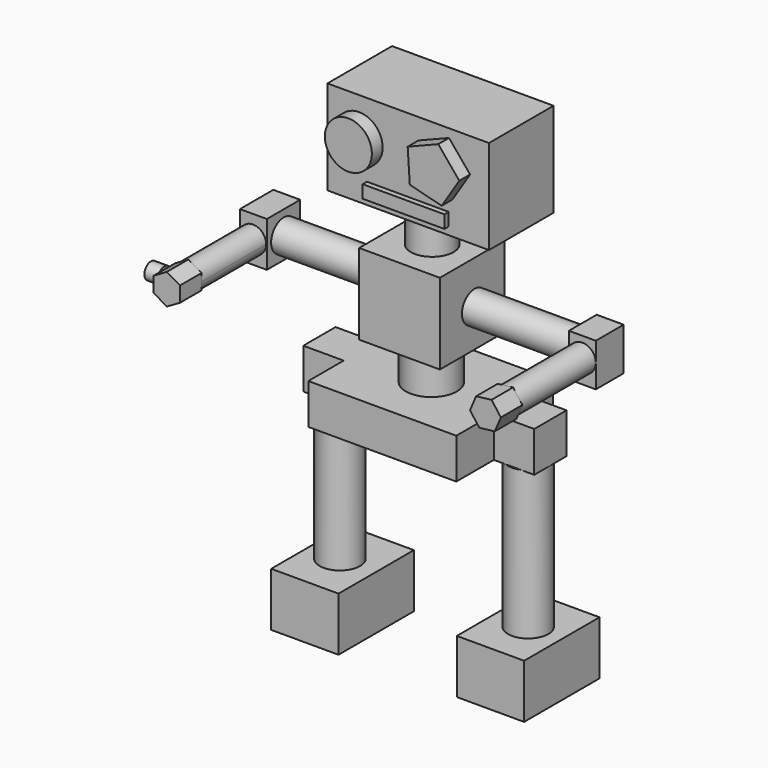
from build123d import *

# Parameters (mm, degrees)
F0_W      = 76.2
F0_H      = 76.2
F1_DEPTH  = 76.2
F3_R      = 14.8282279676
F4_DEPTH  = 101.6
F5_W      = 32.8097548336
F5_H      = 40.4232954606
F6_DEPTH  = 25.4
F7_R      = 12.7
F8_DEPTH  = 88.9
F10_R     = 14.9606
F11_DEPTH = 101.6
F12_W     = 39.3708851188
F12_H     = 42.2465577722
F13_DEPTH = 25.4
F15_DEPTH = 76.2
F17_DEPTH = 25.4
F19_DEPTH = 25.4
F20_R     = 24.146442962
F21_DEPTH = 38.1
F22_W     = 139.7
F22_H     = 114.3
F23_DEPTH = 38.1
F24_W     = 38.1
F24_H     = 38.1
F25_DEPTH = 38.1
F26_W     = 38.1
F26_H     = 38.1
F27_DEPTH = 38.1
F28_R     = 19.05
F29_DEPTH = 139.7
F30_R     = 19.05
F31_DEPTH = 139.7
F32_W     = 63.5
F32_H     = 88.9
F33_DEPTH = 50.8
F34_W     = 63.5
F34_H     = 88.9
F35_DEPTH = 50.8
F36_R     = 20.1986205594
F37_DEPTH = 38.1
F38_W     = 152.4
F38_H     = 76.2
F39_DEPTH = 88.9
F40_R     = 22.1928241729
F41_DEPTH = 12.7
F43_DEPTH = 12.7
F44_R     = 7.7494009563
F45_DEPTH = 12.7
F46_W     = 77.1328099072
F46_H     = 12.1117681265
F47_DEPTH = 5.08


with BuildPart() as f1:
    # F0 (on Front) → F1 (new body)
    with BuildSketch(Plane.XZ):
        with Locations((38.1, 38.1)):
            Rectangle(F0_W, F0_H)
    extrude(amount=F1_DEPTH)

    # F3 (on face) → F4 (join)
    with BuildSketch(Plane.YZ.offset(76.2)):
        with Locations((-35.3661105037, 35.6148853898)):
            Circle(F3_R)
    extrude(amount=F4_DEPTH)

    # F5 (on face) → F6 (join)
    with BuildSketch(Plane.YZ.offset(177.8)):
        with Locations((-34.6139231697, 34.7698931582)):
            Rectangle(F5_W, F5_H)
    extrude(amount=F6_DEPTH)

    # F7 (on face) → F8 (join)
    with BuildSketch(Plane.XZ.offset(51.0188005865)):
        with Locations((190.5, 36.6041734815)):
            Circle(F7_R)
    extrude(amount=F8_DEPTH)

    # F10 (on face) → F11 (join)
    with BuildSketch(Plane(origin=(0, 0, 0), x_dir=(0, -1, 0), z_dir=(-1, 0, 0))):
        with Locations((38.0133911967, 38.1359569728)):
            Circle(F10_R)
    extrude(amount=F11_DEPTH)

    # F12 (on face) → F13 (join)
    with BuildSketch(Plane(origin=(-101.6, 0, 0), x_dir=(0, -1, 0), z_dir=(-1, 0, 0))):
        with Locations((38.3626231924, 38.6948138475)):
            Rectangle(F12_W, F12_H)
    extrude(amount=F13_DEPTH)

    # F14 (on face) → F15 (join)
    with BuildSketch(Plane.XZ.offset(58.0480657518)):
        with BuildLine():
            ThreePointArc((-127, 36.7887159047), (-113.7693257582, 26.1444457534), (-102.2015897118, 38.5758057237))
            ThreePointArc((-102.2015897118, 38.5758057237), (-113.7693257582, 51.0071656939), (-127, 40.3628955426))
            Line((-127, 40.3628955426), (-127, 36.7887159047))
        make_face()
    extrude(amount=F15_DEPTH)

    # F16 (on face) → F17 (join)
    with BuildSketch(Plane.XZ.offset(134.2480657518)):
        Polygon((-102.2015897118, 31.3799439574), (-102.2015897118, 45.77166749), (-114.6651878953, 52.9675292563), (-127.1287860788, 45.77166749), (-127.1287860788, 31.3799439574), (-114.6651878953, 24.1840821911), align=None)
    extrude(amount=F17_DEPTH)

    # F18 (on face) → F19 (join)
    with BuildSketch(Plane.XZ.offset(139.9188005865)):
        Polygon((199.3113872654, 24.8818534128), (205.0575206035, 38.3738986616), (196.246133338, 50.0962187302), (181.6886127346, 48.3264935501), (175.9424793965, 34.8344483013), (184.753866662, 23.1121282327), align=None)
    extrude(amount=F19_DEPTH)

    # F20 (on face) → F21 (join)
    with BuildSketch(Plane(origin=(0, 0, 0), x_dir=(1, 0, 0), z_dir=(0, 0, -1))):
        with Locations((37.9811637104, 38.4700596333)):
            Circle(F20_R)
    extrude(amount=F21_DEPTH)

    # F22 (on face) → F23 (join)
    with BuildSketch(Plane(origin=(0, 0, -38.1), x_dir=(1, 0, 0), z_dir=(0, 0, -1))):
        with Locations((36.0907144785, 36.826572606)):
            Rectangle(F22_W, F22_H)
    extrude(amount=F23_DEPTH)

    # F24 (on face) → F25 (join)
    with BuildSketch(Plane.YZ.offset(105.9407144785)):
        with Locations((-30.6454657137, -57.15)):
            Rectangle(F24_W, F24_H)
    extrude(amount=F25_DEPTH)

    # F26 (on face) → F27 (join)
    with BuildSketch(Plane(origin=(-33.7592855215, 0, 0), x_dir=(0, -1, 0), z_dir=(-1, 0, 0))):
        with Locations((33.1958828002, -57.15)):
            Rectangle(F26_W, F26_H)
    extrude(amount=F27_DEPTH)

    # F28 (on face) → F29 (join)
    with BuildSketch(Plane(origin=(0, 0, -76.2), x_dir=(1, 0, 0), z_dir=(0, 0, -1))):
        with Locations((124.1594851017, 32.0131704211)):
            Circle(F28_R)
    extrude(amount=F29_DEPTH)

    # F30 (on face) → F31 (join)
    with BuildSketch(Plane(origin=(0, 0, -76.2), x_dir=(1, 0, 0), z_dir=(0, 0, -1))):
        with Locations((-51.9242584705, 33.9441895485)):
            Circle(F30_R)
    extrude(amount=F31_DEPTH)

    # F32 (on face) → F33 (join)
    with BuildSketch(Plane(origin=(0, 0, -215.9), x_dir=(1, 0, 0), z_dir=(0, 0, -1))):
        with Locations((-49.5505024791, 33.7955579877)):
            Rectangle(F32_W, F32_H)
    extrude(amount=F33_DEPTH)

    # F34 (on face) → F35 (join)
    with BuildSketch(Plane(origin=(0, 0, -215.9), x_dir=(1, 0, 0), z_dir=(0, 0, -1))):
        with Locations((124.1594851017, 32.0131704211)):
            Rectangle(F34_W, F34_H)
    extrude(amount=F35_DEPTH)

    # F36 (on face) → F37 (join)
    with BuildSketch(Plane.XY.offset(76.2)):
        with Locations((38.3004583418, -37.8415174782)):
            Circle(F36_R)
    extrude(amount=F37_DEPTH)

    # F38 (on face) → F39 (join)
    with BuildSketch(Plane.XY.offset(114.3)):
        with Locations((46.3255597174, -38.1)):
            Rectangle(F38_W, F38_H)
    extrude(amount=F39_DEPTH)

    # F40 (on face) → F41 (join)
    with BuildSketch(Plane.XZ.offset(76.2)):
        with Locations((0, 166.8851673603)):
            Circle(F40_R)
    extrude(amount=F41_DEPTH)

    # F42 (on face) → F43 (join)
    with BuildSketch(Plane.XZ.offset(76.2)):
        Polygon((88.0750278551, 145.0237293252), (104.6800156515, 171.2694208614), (84.8501031118, 195.172067422), (55.9895553719, 183.6990238813), (57.9826684744, 152.7056464582), align=None)
    extrude(amount=F43_DEPTH)

    # F44 (on face) → F45 (join)
    with BuildSketch(Plane(origin=(-127.1287860788, 0, 0), x_dir=(0, -1, 0), z_dir=(-1, 0, 0))):
        with Locations((146.9480657518, 40.6018458307)):
            Circle(F44_R)
    extrude(amount=F45_DEPTH)

    # F46 (on face) → F47 (join)
    with BuildSketch(Plane.XZ.offset(76.2)):
        with Locations((46.0010524839, 127.6153102517)):
            Rectangle(F46_W, F46_H)
    extrude(amount=F47_DEPTH)


solid = f1.part
